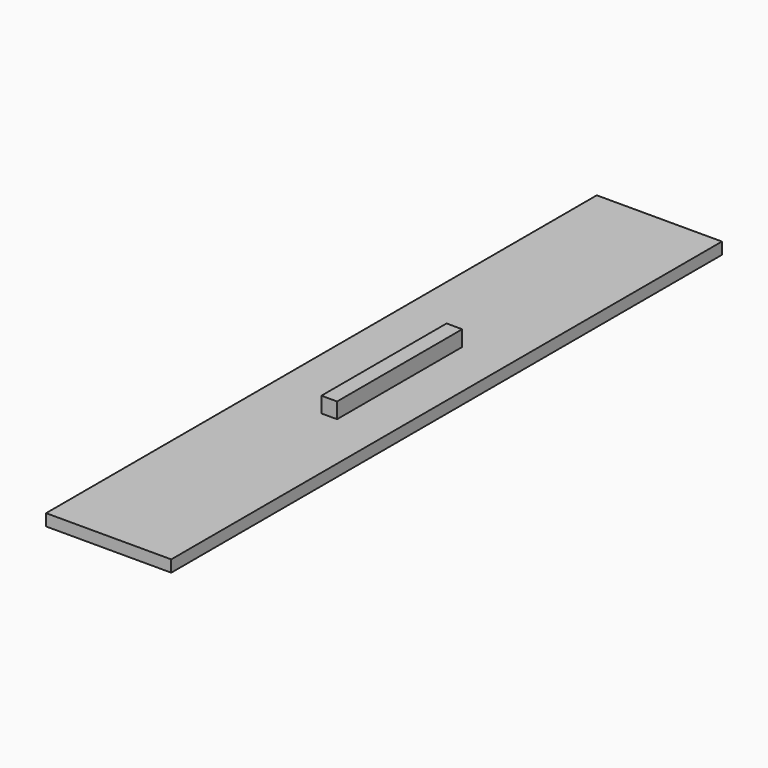
from build123d import *

# Parameters (mm, degrees)
F0_W     = 203.2
F0_H     = 19.05
F1_DEPTH = 558.8
F2_W     = 254
F2_H     = 25.4
F3_DEPTH = 25.4


with BuildPart() as f1:
    # F0 (on Front) → F1 (new body, symmetric)
    with BuildSketch(Plane.XZ):
        with Locations((0, 9.525)):
            Rectangle(F0_W, F0_H)
    extrude(amount=F1_DEPTH, both=True)


with BuildPart() as f3:
    # F2 (on Right) → F3 (new body)
    with BuildSketch(Plane.YZ):
        with Locations((0, 31.75)):
            Rectangle(F2_W, F2_H)
    extrude(amount=F3_DEPTH)


solid = Compound([f1.part, f3.part])
